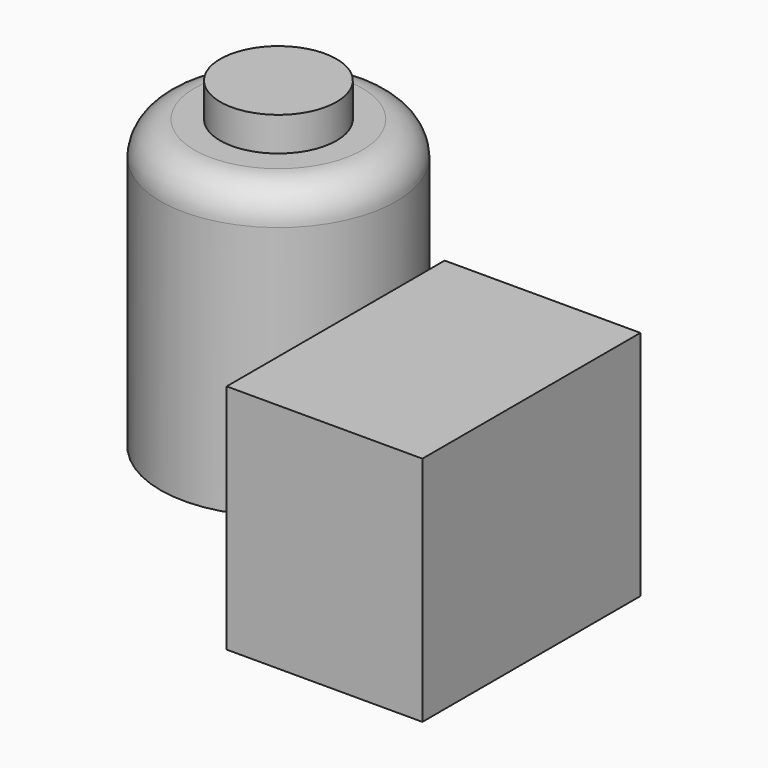
from build123d import *

# Parameters (mm, degrees)
F0_W     = 36.493111
F0_H     = 43.211505
F1_DEPTH = 50.8
F4_R     = 10.845351
F5_DEPTH = 6.35


with BuildPart() as f1:
    # F0 (on Front) → F1 (new body)
    with BuildSketch(Plane.XZ):
        with Locations((18.246555, 21.605752)):
            Rectangle(F0_W, F0_H)
    extrude(amount=F1_DEPTH)


with BuildPart() as f3:
    # F2 (on Front) → F3 (revolve)
    with BuildSketch(Plane.XZ):
        with BuildLine():
            Line((-30.996241, 56.342922), (-46.633724, 56.342922))
            ThreePointArc((-46.633724, 56.342922), (-51.123852, 54.48305), (-52.983724, 49.992922))
            Line((-52.983724, 49.992922), (-52.983724, 2.595745))
            Line((-52.983724, 2.595745), (-30.996241, 2.595745))
            Line((-30.996241, 2.595745), (-30.996241, 56.342922))
        make_face()
    revolve(axis=Axis((-30.996241, 0, 29.469334), (0, 0, -1)))

    # F4 (on face) → F5 (join)
    with BuildSketch(Plane.XY.offset(56.342922)):
        with Locations((-30.996241, 0)):
            Circle(F4_R)
    extrude(amount=F5_DEPTH)


solid = Compound([f1.part, f3.part])
